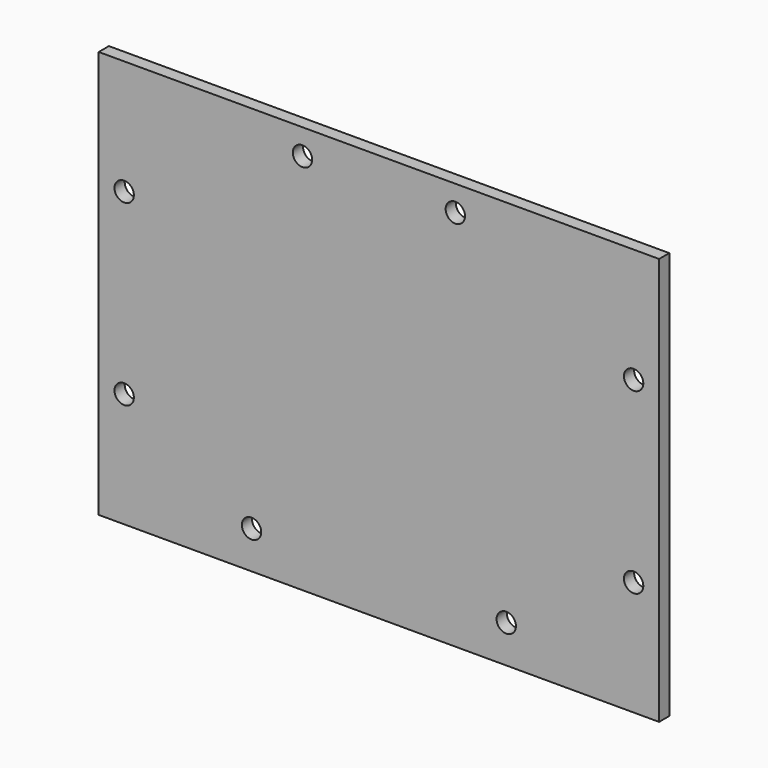
from build123d import *

# Parameters (mm, degrees)
F0_W      = 139.7
F0_H      = 101.6
F1_DEPTH  = 3.175
F2_R      = 2.413
F3_DEPTH  = 3.176
F4_R      = 2.413
F5_DEPTH  = 3.176
F6_R      = 2.413
F7_DEPTH  = 3.176
F8_R      = 2.413
F9_DEPTH  = 3.176
F10_R     = 2.413
F11_DEPTH = 3.176
F12_R     = 2.413
F13_DEPTH = 3.176
F14_R     = 2.413
F15_DEPTH = 3.176
F16_R     = 2.413
F17_DEPTH = 3.176


with BuildPart() as f1:
    # F0 (on Front) → F1 (new body)
    with BuildSketch(Plane.XZ):
        Rectangle(F0_W, F0_H)
    extrude(amount=F1_DEPTH)

    # F2 (on face) → F3 (cut, through all)
    with BuildSketch(Plane.XZ.offset(3.175)):
        with Locations((-19.05, 44.45)):
            Circle(F2_R)
    extrude(amount=-F3_DEPTH, mode=Mode.SUBTRACT)

    # F4 (on face) → F5 (cut, through all)
    with BuildSketch(Plane.XZ.offset(3.175)):
        with Locations((19.05, 44.45)):
            Circle(F4_R)
    extrude(amount=-F5_DEPTH, mode=Mode.SUBTRACT)

    # F6 (on face) → F7 (cut, through all)
    with BuildSketch(Plane.XZ.offset(3.175)):
        with Locations((-31.75, -41.402)):
            Circle(F6_R)
    extrude(amount=-F7_DEPTH, mode=Mode.SUBTRACT)

    # F8 (on face) → F9 (cut, through all)
    with BuildSketch(Plane.XZ.offset(3.175)):
        with Locations((31.75, -41.402)):
            Circle(F8_R)
        with Locations((-31.75, -41.402)):
            Circle(F8_R)
    extrude(amount=-F9_DEPTH, mode=Mode.SUBTRACT)

    # F10 (on face) → F11 (cut, through all)
    with BuildSketch(Plane.XZ.offset(3.175)):
        with Locations((-63.5, 22.225)):
            Circle(F10_R)
    extrude(amount=-F11_DEPTH, mode=Mode.SUBTRACT)

    # F12 (on face) → F13 (cut, through all)
    with BuildSketch(Plane.XZ.offset(3.175)):
        with Locations((-63.5, -22.225)):
            Circle(F12_R)
    extrude(amount=-F13_DEPTH, mode=Mode.SUBTRACT)

    # F14 (on face) → F15 (cut, through all)
    with BuildSketch(Plane.XZ.offset(3.175)):
        with Locations((63.5, 22.225)):
            Circle(F14_R)
    extrude(amount=-F15_DEPTH, mode=Mode.SUBTRACT)

    # F16 (on face) → F17 (cut, through all)
    with BuildSketch(Plane.XZ.offset(3.175)):
        with Locations((63.5, -22.225)):
            Circle(F16_R)
        with Locations((63.5, 22.225)):
            Circle(F16_R)
    extrude(amount=-F17_DEPTH, mode=Mode.SUBTRACT)


solid = f1.part
